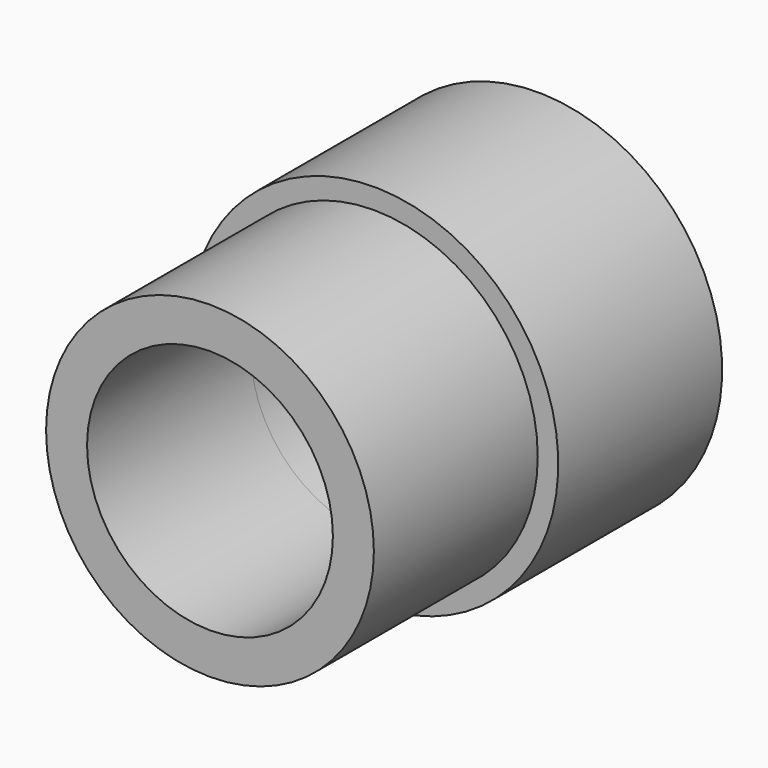
from build123d import *

# Parameters (mm, degrees)
F0_R     = 8
F0_R_2   = 6
F1_DEPTH = 10
F2_R     = 9
F2_R_2   = 6
F3_DEPTH = 10


with BuildPart() as f1:
    # F0 (on Front) → F1 (new body)
    with BuildSketch(Plane.XZ):
        Circle(F0_R)
        Circle(F0_R_2, mode=Mode.SUBTRACT)
    extrude(amount=F1_DEPTH)

    # F2 (on face) → F3 (join)
    with BuildSketch(Plane(origin=(0, 0, 0), x_dir=(-1, 0, 0), z_dir=(0, 1, 0))):
        Circle(F2_R)
        Circle(F2_R_2, mode=Mode.SUBTRACT)
    extrude(amount=F3_DEPTH)


solid = f1.part
